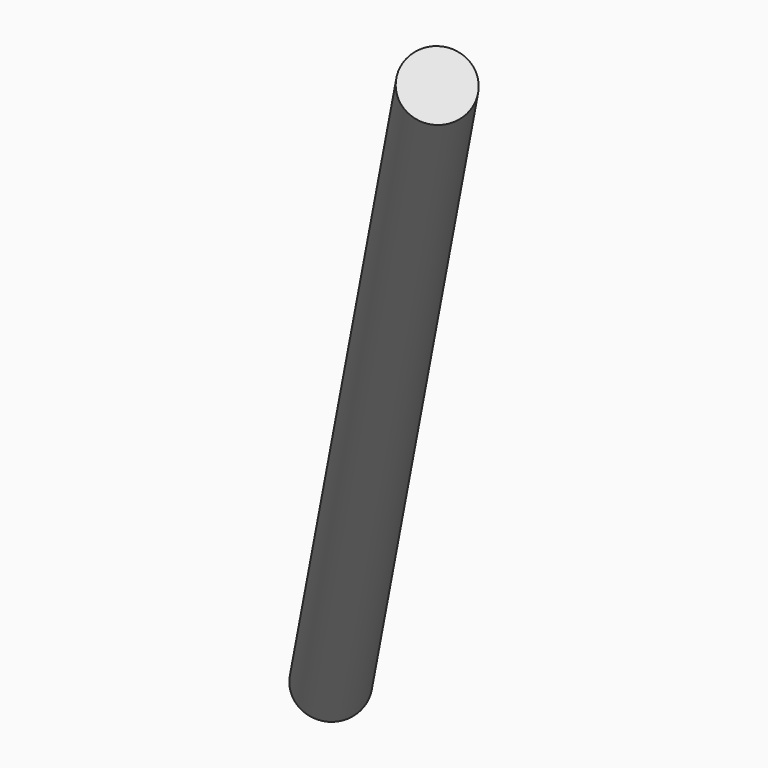
from build123d import *

# Parameters (mm, degrees)
F6_R     = 2.1206253415
F7_DEPTH = 97.028


with BuildPart() as f7:
    # F6 (on face) → F7 (new body)
    with BuildSketch(Plane(origin=(14.8512732095, -15.7860316103, 22.2236424909), x_dir=(0.8781342429, 0.2770490655, -0.3900308536), z_dir=(-0.4784143094, 0.5085263266, -0.7159055271))):
        with Locations((16.3761489093, 16.985649243)):
            Circle(F6_R)
    extrude(amount=F7_DEPTH)


solid = f7.part
